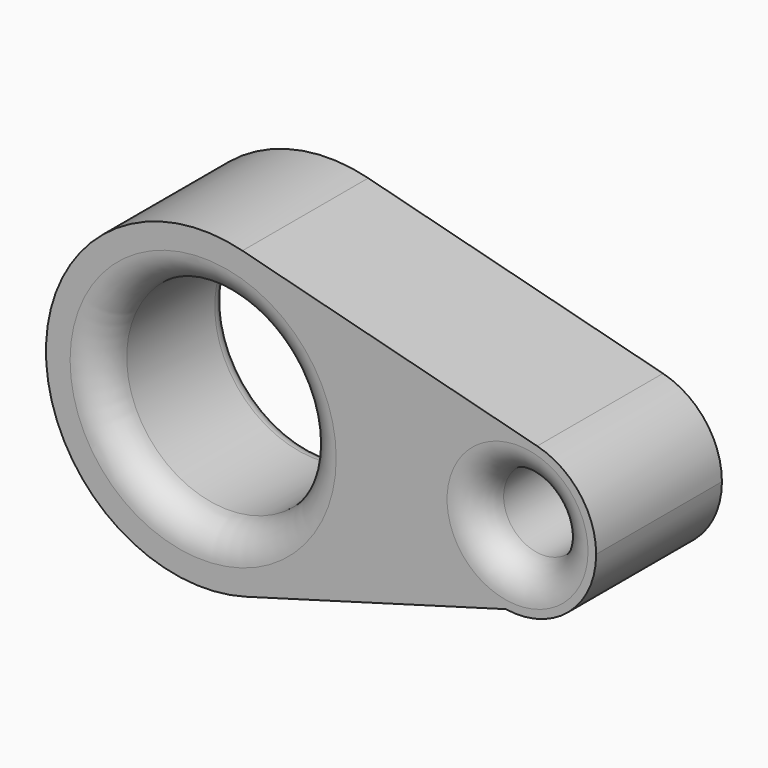
from build123d import *

# Parameters (mm, degrees)
F0_R     = 16.418587
F0_R_2   = 6.310263
F1_DEPTH = 25.4
F2_R     = 5.08
F3_R     = 2.54


with BuildPart() as f1:
    # F0 (on Front) → F1 (new body)
    with BuildSketch(Plane.XZ):
        with BuildLine():
            ThreePointArc((-57.30524, -24.439051), (-43.965646, -15.3196), (-38.825702, 0))
            ThreePointArc((-38.825702, 0), (-44.145238, 15.55426), (-57.875702, 24.593444))
            ThreePointArc((-57.875702, 24.593444), (-89.623983, -0.295493), (-57.30524, -24.439051))
        make_face()
        with Locations((-64.225702, 0)):
            Circle(F0_R, mode=Mode.SUBTRACT)
        with BuildLine():
            ThreePointArc((-57.875702, 24.593444), (-44.145238, 15.55426), (-38.825702, 0))
            ThreePointArc((-38.825702, 0), (-43.965646, -15.3196), (-57.30524, -24.439051))
            Line((-57.30524, -24.439051), (-15.338253, -12.555164))
            ThreePointArc((-15.338253, -12.555164), (-25.867667, 2.547056), (-10.250702, 12.296722))
            Line((-10.250702, 12.296722), (-57.875702, 24.593444))
        make_face()
        with BuildLine():
            ThreePointArc((-0.725702, 0), (-3.38547, 7.77713), (-10.250702, 12.296722))
            ThreePointArc((-10.250702, 12.296722), (-25.867667, 2.547056), (-15.338253, -12.555164))
            ThreePointArc((-15.338253, -12.555164), (-5.149211, -9.632741), (-0.725702, 0))
        make_face()
        with Locations((-13.425702, 0)):
            Circle(F0_R_2, mode=Mode.SUBTRACT)
    extrude(amount=F1_DEPTH)

    # F2
    f2_edges = [f1.edges().sort_by_distance(p)[0] for p in [
        (-80.644288, -25.4, 0),
        (-7.115439, -12.7, 0),
        (-19.735965, 0, 0),
        (-19.735965, -25.4, 0),
    ]]
    fillet(f2_edges, radius=F2_R)

    # F3
    f3_edges = [f1.edges().sort_by_distance(p)[0] for p in [
        (-80.644288, 0, 0),
    ]]
    fillet(f3_edges, radius=F3_R)


solid = f1.part
